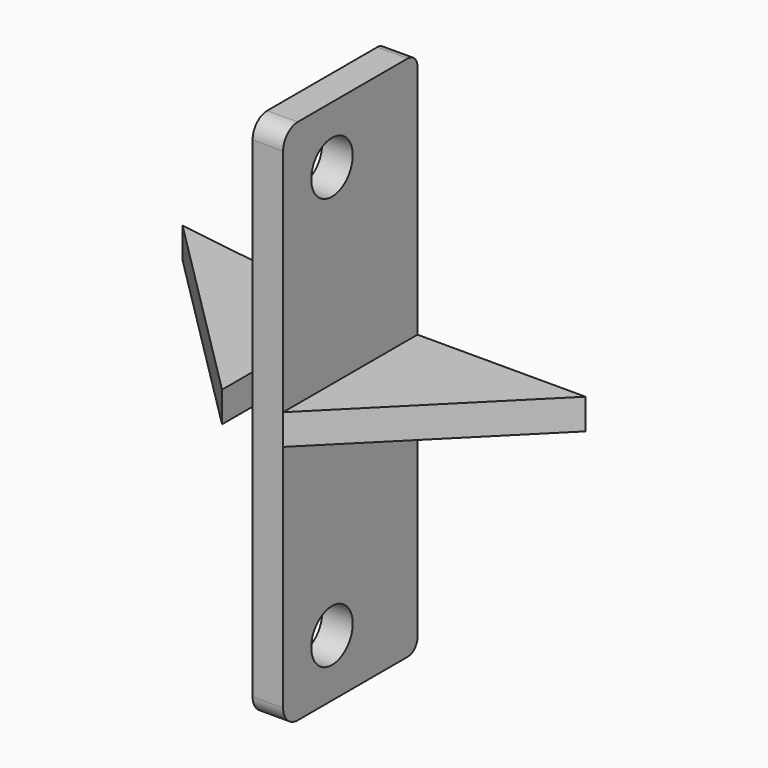
from build123d import *

# Parameters (mm, degrees)
F0_W      = 69.85
F0_H      = 219.075
F0_R      = 10.795
F1_DEPTH  = 12.7
F2_R      = 5.08
F3_R      = 7.62
F4_W      = 69.85
F4_H      = 12.7
F5_DEPTH  = 69.85
F7_DEPTH  = 115.8885
F10_DEPTH = 12.7


with BuildPart() as f1:
    # F0 (on Right) → F1 (new body)
    with BuildSketch(Plane.YZ):
        with Locations((34.925, 109.5375)):
            Rectangle(F0_W, F0_H)
        with Locations((25.4, 23.8125)):
            Circle(F0_R, mode=Mode.SUBTRACT)
        with Locations((25.4, 195.2625)):
            Circle(F0_R, mode=Mode.SUBTRACT)
    extrude(amount=F1_DEPTH)

    # F2
    f2_edges = [f1.edges().sort_by_distance(p)[0] for p in [
        (6.35, 69.85, 219.075),
        (6.35, 69.85, 0),
    ]]
    fillet(f2_edges, radius=F2_R)

    # F3
    f3_edges = [f1.edges().sort_by_distance(p)[0] for p in [
        (6.35, 0, 219.075),
        (6.35, 0, 0),
    ]]
    fillet(f3_edges, radius=F3_R)


with BuildPart() as f5:
    # F4 (on face) → F5 (new body)
    with BuildSketch(Plane.YZ.offset(12.7)):
        with Locations((34.925, 109.5375)):
            Rectangle(F4_W, F4_H)
    extrude(amount=F5_DEPTH)

    # F6 (on face) → F7 (cut, through all)
    with BuildSketch(Plane.XY.offset(115.8875)):
        Polygon((82.55, 0), (82.55, 69.85), (12.7, 0), align=None)
    extrude(amount=-F7_DEPTH, mode=Mode.SUBTRACT)


with BuildPart() as f8_1:
    # F8: instance of F5
    add(f5.part.mirror(Plane(origin=(0, 35.436059, 109.5375), x_dir=(0, 1, 0), z_dir=(-1, 0, 0))))

    # F9 (on face) → F10 (join, through all)
    with BuildSketch(Plane.XY.offset(115.8875)):
        Polygon((-82.55, 69.85), (-12.7, 69.85), (-94.823429, 82.123429), align=None)
    extrude(amount=-F10_DEPTH)


solid = Compound([f1.part, f5.part, f8_1.part])
